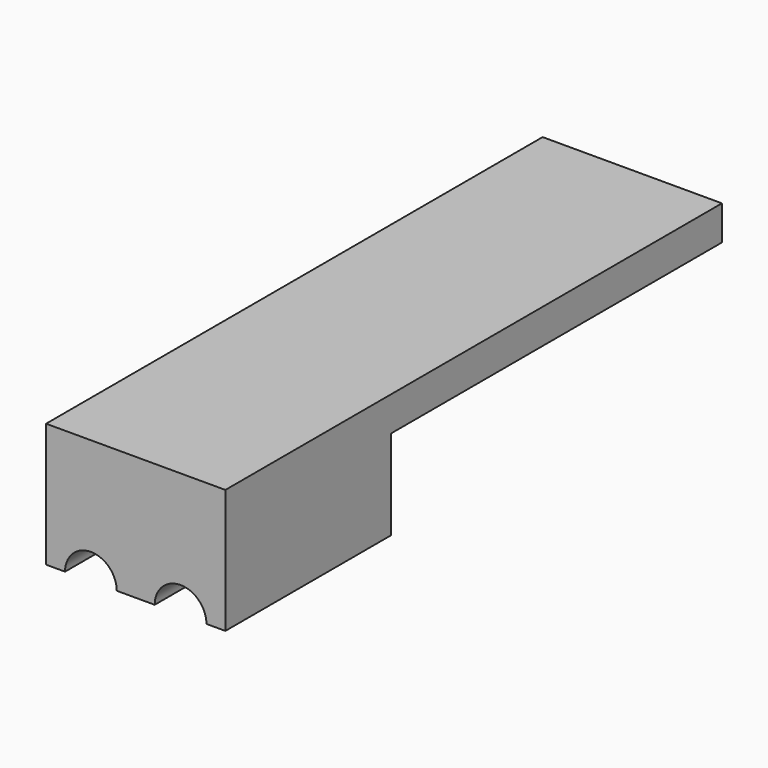
from build123d import *

# Parameters (mm, degrees)
BOX016_W          = 30
BOX016_H          = 20
BOX016_DEPTH      = 9.2
BOX015_W          = 26
BOX015_H          = 12
BOX015_DEPTH      = 5.2
CYLINDER007_R     = 0.75
CYLINDER007_DEPTH = 7
ARRAY007_X_COUNT  = 2
ARRAY007_X_PITCH  = 2.6
ARRAY007_Y_COUNT  = 2
ARRAY007_Y_PITCH  = 1
BOX014_W          = 5.2
BOX014_H          = 18
BOX014_DEPTH      = 7.2


with BuildPart() as obj1:
    # Box016 → Box016 (new body)
    with BuildSketch(Plane(origin=(-1, -2, -5.6), x_dir=(1, 0, 0), z_dir=(0, 0, 1))):
        with Locations((15, 10)):
            Rectangle(BOX016_W, BOX016_H)
    extrude(amount=BOX016_DEPTH)


with BuildPart() as cube_10_base009:
    # Box015 → Box015 (new body)
    with BuildSketch(Plane(origin=(0, 6, 1), x_dir=(1, 0, 0), z_dir=(0, 0, 1))):
        with Locations((13, 6)):
            Rectangle(BOX015_W, BOX015_H)
    extrude(amount=BOX015_DEPTH)


with BuildPart() as array007:
    # Cylinder007 → Cylinder007 (new body)
    with BuildSketch(Plane(origin=(1.3, -1, 3.6), x_dir=(1, 0, 0), z_dir=(0, 1, 0))):
        Circle(CYLINDER007_R)
    extrude(amount=CYLINDER007_DEPTH)

    # Array007 X: Array007 ×2


with BuildPart() as array007_1:
    add(array007.part)
    with Locations(*[(i * ARRAY007_X_PITCH, 0, 0) for i in range(1, ARRAY007_X_COUNT)]):
        add(array007.part)

    # Array007 Y: Array007 ×2


with BuildPart() as array007_2:
    add(array007_1.part)
    with Locations(*[(0, i * ARRAY007_Y_PITCH, 0) for i in range(1, ARRAY007_Y_COUNT)]):
        add(array007_1.part)


with BuildPart() as obj2:
    # Box014 → Box014 (new body)
    with BuildSketch(Plane.XY):
        with Locations((2.6, 9)):
            Rectangle(BOX014_W, BOX014_H)
    extrude(amount=BOX014_DEPTH)

    # Cut015: cut Array007
    add(array007_2.part, mode=Mode.SUBTRACT)

    # Cut014: cut cube_10_base009
    add(cube_10_base009.part, mode=Mode.SUBTRACT)

    # Cut016: cut obj1
    add(obj1.part, mode=Mode.SUBTRACT)


solid = obj2.part
